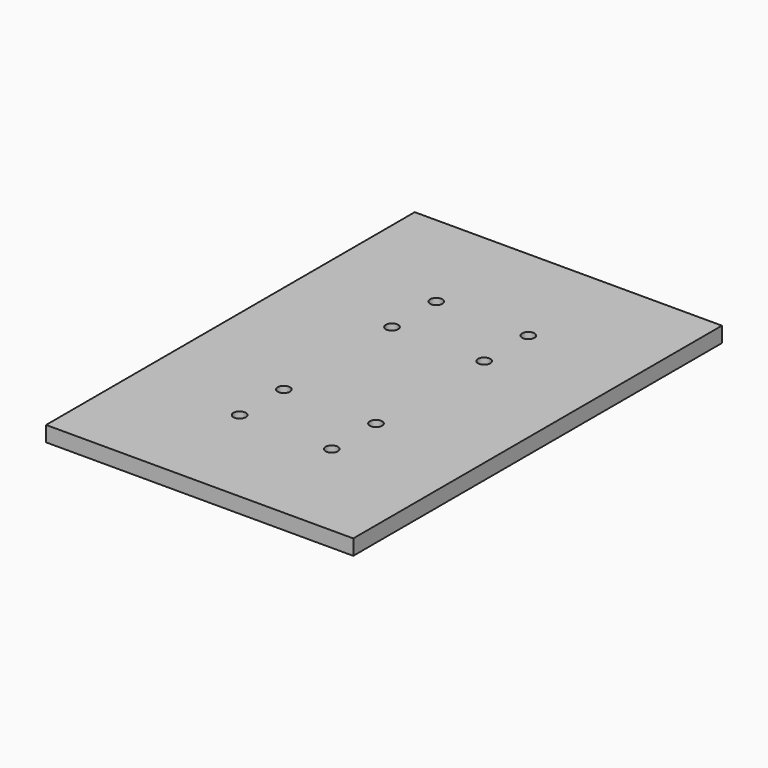
from build123d import *

# Parameters (mm, degrees)
F0_W     = 100
F0_H     = 150
F1_DEPTH = 5
F2_R     = 2
F3_DEPTH = 5.001


with BuildPart() as f1:
    # F0 (on Top) → F1 (new body)
    with BuildSketch(Plane.XY):
        with Locations((50, 75)):
            Rectangle(F0_W, F0_H)
    extrude(amount=F1_DEPTH)

    # F2 (on face) → F3 (cut, through all)
    with BuildSketch(Plane.XY.offset(5)):
        with Locations((35, 53)):
            Circle(F2_R)
        with Locations((65, 53)):
            Circle(F2_R)
        with Locations((35, 35)):
            Circle(F2_R)
        with Locations((65, 35)):
            Circle(F2_R)
        with Locations((35, 97)):
            Circle(F2_R)
        with Locations((35, 115)):
            Circle(F2_R)
        with Locations((65, 115)):
            Circle(F2_R)
        with Locations((65, 97)):
            Circle(F2_R)
    extrude(amount=-F3_DEPTH, mode=Mode.SUBTRACT)


solid = f1.part
